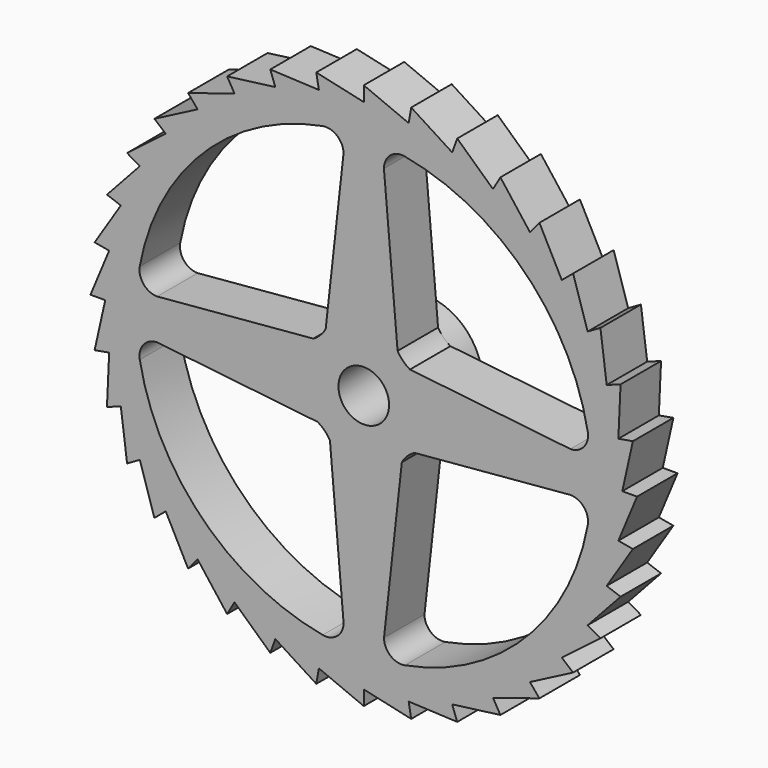
from build123d import *

# Parameters (mm, degrees)
F0_R     = 11.5
F1_DEPTH = 10
F0_R_2   = 5
F2_DEPTH = 15


with BuildPart() as f1:
    # F0 (on Front) → F1 (new body)
    with BuildSketch(Plane.XZ):
        Polygon((0, 54), (0, 51.083995), (-9.377002, 53.179619), (-8.870643, 50.307914), (-18.469088, 50.743402), (-17.471755, 48.003253), (-27, 46.765372), (-25.541998, 44.240037), (-34.710531, 41.3664), (-32.836159, 39.132611), (-41.3664, 34.710531), (-39.132611, 32.836159), (-46.765372, 27), (-44.240037, 25.541998), (-50.743402, 18.469088), (-48.003253, 17.471755), (-53.179619, 9.377002), (-50.307914, 8.870643), (-54, 0), (-51.083995, 0), (-53.179619, -9.377002), (-50.307914, -8.870643), (-50.743402, -18.469088), (-48.003253, -17.471755), (-46.765372, -27), (-44.240037, -25.541998), (-41.3664, -34.710531), (-39.132611, -32.836159), (-34.710531, -41.3664), (-32.836159, -39.132611), (-27, -46.765372), (-25.541998, -44.240037), (-18.469088, -50.743402), (-17.471755, -48.003253), (-9.377002, -53.179619), (-8.870643, -50.307914), (0, -54), (0, -51.083995), (9.377002, -53.179619), (8.870643, -50.307914), (18.469088, -50.743402), (17.471755, -48.003253), (27, -46.765372), (25.541998, -44.240037), (34.710531, -41.3664), (32.836159, -39.132611), (41.3664, -34.710531), (39.132611, -32.836159), (46.765372, -27), (44.240037, -25.541998), (50.743402, -18.469088), (48.003253, -17.471755), (53.179619, -9.377002), (50.307914, -8.870643), (54, 0), (51.083995, 0), (53.179619, 9.377002), (50.307914, 8.870643), (50.743402, 18.469088), (48.003253, 17.471755), (46.765372, 27), (44.240037, 25.541998), (41.3664, 34.710531), (39.132611, 32.836159), (34.710531, 41.3664), (32.836159, 39.132611), (27, 46.765372), (25.541998, 44.240037), (18.469088, 50.743402), (17.471755, 48.003253), (9.377002, 53.179619), (8.870643, 50.307914), align=None)
        with BuildLine():
            Line((-6.683914, -9.966208), (-3.984963, -40.815351))
            ThreePointArc((-3.984963, -40.815351), (-5.242796, -43.506931), (-8.116223, -44.262026))
            ThreePointArc((-8.116223, -44.262026), (-31.813943, -31.825666), (-44.259032, -8.13253))
            ThreePointArc((-44.259032, -8.13253), (-43.505888, -5.259895), (-40.816663, -4))
            Line((-40.816663, -4), (-9.129554, -7.524517))
            ThreePointArc((-9.129554, -7.524517), (-7.741489, -8.57985), (-6.683914, -9.966208))
        make_face(mode=Mode.SUBTRACT)
        with BuildLine():
            Line((9.966208, -6.683914), (40.815351, -3.984963))
            ThreePointArc((40.815351, -3.984963), (43.506931, -5.242796), (44.262026, -8.116223))
            ThreePointArc((44.262026, -8.116223), (31.825666, -31.813943), (8.13253, -44.259032))
            ThreePointArc((8.13253, -44.259032), (5.259895, -43.505888), (4, -40.816663))
            Line((4, -40.816663), (7.524517, -9.129554))
            ThreePointArc((7.524517, -9.129554), (8.57985, -7.741489), (9.966208, -6.683914))
        make_face(mode=Mode.SUBTRACT)
        with BuildLine():
            ThreePointArc((-44.262026, 8.116223), (-31.825666, 31.813943), (-8.13253, 44.259032))
            ThreePointArc((-8.13253, 44.259032), (-5.259895, 43.505888), (-4, 40.816663))
            Line((-4, 40.816663), (-7.524517, 9.129554))
            ThreePointArc((-7.524517, 9.129554), (-8.57985, 7.741489), (-9.966208, 6.683914))
            Line((-9.966208, 6.683914), (-40.815351, 3.984963))
            ThreePointArc((-40.815351, 3.984963), (-43.506931, 5.242796), (-44.262026, 8.116223))
        make_face(mode=Mode.SUBTRACT)
        Circle(F0_R, mode=Mode.SUBTRACT)
        with BuildLine():
            Line((6.683914, 9.966208), (3.984963, 40.815351))
            ThreePointArc((3.984963, 40.815351), (5.242796, 43.506931), (8.116223, 44.262026))
            ThreePointArc((8.116223, 44.262026), (31.813943, 31.825666), (44.259032, 8.13253))
            ThreePointArc((44.259032, 8.13253), (43.505888, 5.259895), (40.816663, 4))
            Line((40.816663, 4), (9.129554, 7.524517))
            ThreePointArc((9.129554, 7.524517), (7.741489, 8.57985), (6.683914, 9.966208))
        make_face(mode=Mode.SUBTRACT)
    extrude(amount=-F1_DEPTH)

    # F0 (on Front) → F2 (join)
    with BuildSketch(Plane.XZ):
        Circle(F0_R)
        Circle(F0_R_2, mode=Mode.SUBTRACT)
    extrude(amount=-F2_DEPTH)


solid = f1.part
